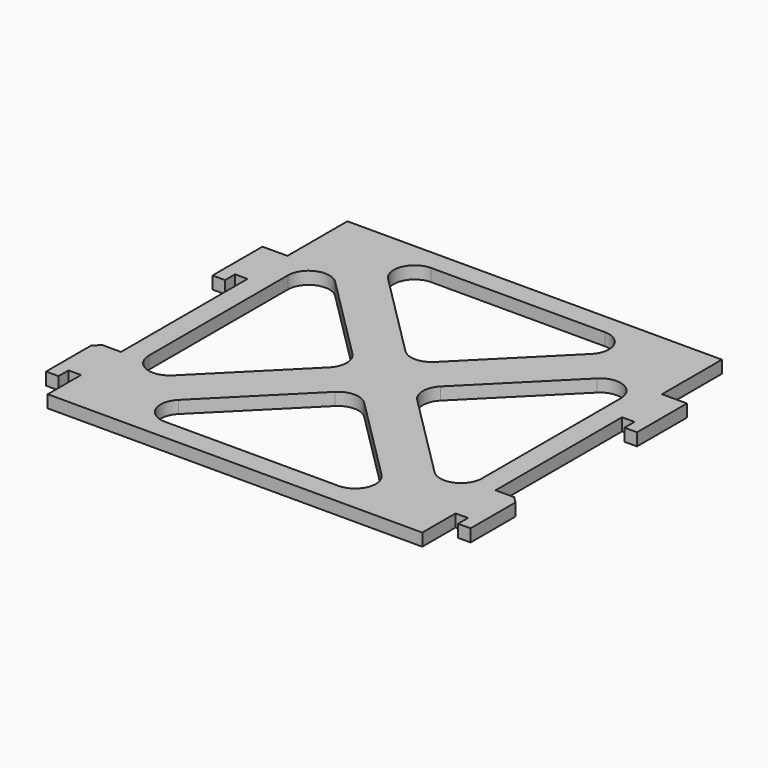
from build123d import *

# Parameters (mm, degrees)
F0_W     = 90
F0_H     = 90
F1_DEPTH = 3
F3_DEPTH = 3
F4_SIZE  = 1.5


with BuildPart() as f1:
    # F0 (on Top) → F1 (new body)
    with BuildSketch(Plane.XY):
        Rectangle(F0_W, F0_H)
        with BuildLine():
            Line((3.535534, -10.606602), (24.393397, -31.464465))
            ThreePointArc((24.393397, -31.464465), (25.477261, -36.913416), (20.857863, -39.999999))
            Line((20.857863, -39.999999), (-20.857864, -39.999999))
            ThreePointArc((-20.857864, -39.999999), (-25.477261, -36.913416), (-24.393398, -31.464465))
            Line((-24.393398, -31.464465), (-3.535534, -10.606602))
            ThreePointArc((-3.535534, -10.606602), (0, -9.142136), (3.535534, -10.606602))
        make_face(mode=Mode.SUBTRACT)
        with BuildLine():
            ThreePointArc((-40, 20.857864), (-36.913417, 25.477262), (-31.464466, 24.393398))
            Line((-31.464466, 24.393398), (-10.606602, 3.535534))
            ThreePointArc((-10.606602, 3.535534), (-9.142136, 0), (-10.606602, -3.535534))
            Line((-10.606602, -3.535534), (-31.464466, -24.393398))
            ThreePointArc((-31.464466, -24.393398), (-36.913417, -25.477262), (-40, -20.857864))
            Line((-40, -20.857864), (-40, 20.857864))
        make_face(mode=Mode.SUBTRACT)
        with BuildLine():
            ThreePointArc((20.857863, 39.999999), (25.477261, 36.913416), (24.393397, 31.464465))
            Line((24.393397, 31.464465), (3.535534, 10.606602))
            ThreePointArc((3.535534, 10.606602), (0, 9.142136), (-3.535534, 10.606602))
            Line((-3.535534, 10.606602), (-24.393398, 31.464465))
            ThreePointArc((-24.393398, 31.464465), (-25.477261, 36.913416), (-20.857864, 39.999999))
            Line((-20.857864, 39.999999), (20.857863, 39.999999))
        make_face(mode=Mode.SUBTRACT)
        with BuildLine():
            Line((10.606602, 3.535534), (31.464466, 24.393398))
            ThreePointArc((31.464466, 24.393398), (36.913417, 25.477262), (40, 20.857864))
            Line((40, 20.857864), (40, -20.857864))
            ThreePointArc((40, -20.857864), (36.913417, -25.477262), (31.464466, -24.393398))
            Line((31.464466, -24.393398), (10.606602, -3.535534))
            ThreePointArc((10.606602, -3.535534), (9.142136, 0), (10.606602, 3.535534))
        make_face(mode=Mode.SUBTRACT)
    extrude(amount=F1_DEPTH)

    # F2 (on face) → F3 (join, through all)
    with BuildSketch(Plane(origin=(0, 0, 0), x_dir=(1, 0, 0), z_dir=(0, 0, -1))):
        Polygon((45, -15), (45, -27), (51, -27), (51, -12), (48, -12), (48, -15), align=None)
        Polygon((45, 35), (45, 23), (51, 23), (51, 38), (48, 38), (48, 35), align=None)
        Polygon((-45, -15), (-48, -15), (-48, -12), (-51, -12), (-51, -27), (-45, -27), align=None)
        Polygon((-45, 23), (-45, 35), (-48, 35), (-48, 38), (-51, 38), (-51, 23), align=None)
    extrude(amount=-F3_DEPTH)

    # F4
    f4_edges = [f1.edges().sort_by_distance(p)[0] for p in [
        (-51, -23, 1.5),
        (51, -23, 1.5),
    ]]
    chamfer(f4_edges, length=F4_SIZE)


solid = f1.part
